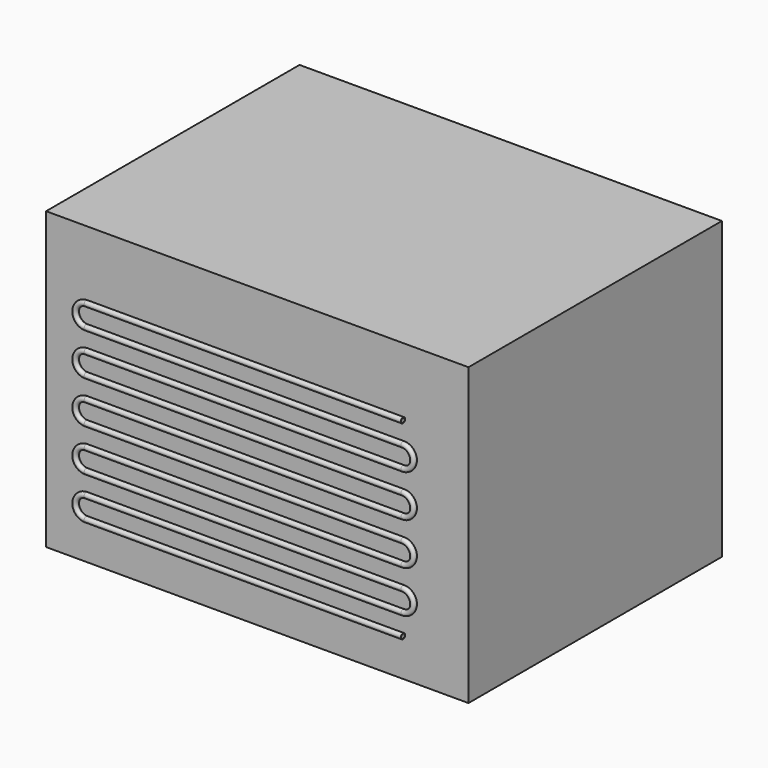
from build123d import *

# Parameters (mm, degrees)
F1_R          = 2.5
F1_R_2        = 2
F3_W          = 400
F3_H          = 300
F4_DEPTH      = 80
F4_DEPTH_BACK = 200


with BuildPart() as f2:
    # F2: sweep along a path in F0
    with BuildLine(Plane.XZ) as f2_path:
        Line((150, 25.5730357021), (-150, 25.5730357021))
        ThreePointArc((-150, 25.5730357021), (-160, 15.5730357021), (-150, 5.5730357021))
        Line((-150, 5.5730357021), (150, 5.5730357021))
        ThreePointArc((150, 5.5730357021), (160, -4.4269642979), (150, -14.4269642979))
        Line((150, -14.4269642979), (-150, -14.4269642979))
        ThreePointArc((-150, -14.4269642979), (-160, -24.4269642979), (-150, -34.4269642979))
        Line((-150, -34.4269642979), (150, -34.4269642979))
        ThreePointArc((150, -34.4269642979), (160, -44.4269642979), (150, -54.4269642979))
        Line((150, -54.4269642979), (-150, -54.4269642979))
        ThreePointArc((-150, -54.4269642979), (-160, -64.4269642979), (-150, -74.4269642979))
        Line((-150, -74.4269642979), (150, -74.4269642979))
        ThreePointArc((150, -74.4269642979), (160, -84.4269642979), (150, -94.4269642979))
        Line((150, -94.4269642979), (-150, -94.4269642979))
        ThreePointArc((-150, -94.4269642979), (-160, -104.4269642979), (-150, -114.4269642979))
        Line((-150, -114.4269642979), (150, -114.4269642979))
        ThreePointArc((150, -114.4269642979), (160, -124.4269642979), (150, -134.4269642979))
        Line((150, -134.4269642979), (-150, -134.4269642979))
        ThreePointArc((-150, -134.4269642979), (-160, -144.4269642979), (-150, -154.4269642979))
        Line((-150, -154.4269642979), (150, -154.4269642979))
    # F1 (on Right) → F2 (sweep)
    with BuildSketch(Plane.YZ):
        with Locations((0, 25.5730357021)):
            Circle(F1_R)
        with Locations((0, 25.5730357021)):
            Circle(F1_R_2, mode=Mode.SUBTRACT)
    sweep(path=f2_path.line)


with BuildPart() as f4:
    # F3 (on Top) → F4 (new body, two sides)
    with BuildSketch(Plane.XY) as f4_sk:
        with Locations((0, 165)):
            Rectangle(F3_W, F3_H)
    extrude(amount=F4_DEPTH)
    extrude(f4_sk.sketch, amount=-F4_DEPTH_BACK)


solid = Compound([f2.part, f4.part])
